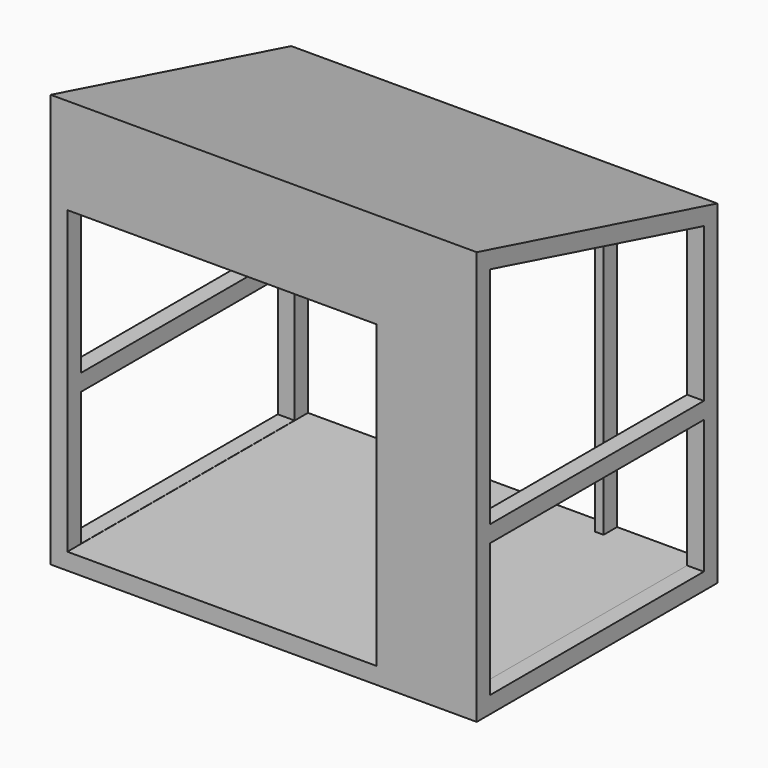
from build123d import *

# Parameters (mm, degrees)
F0_W      = 2590.8
F0_H      = 1828.8
F1_DEPTH  = 2514.6
F3_DEPTH  = 2590.801
F5_DEPTH  = 2590.801
F6_W      = 2387.6
F6_H      = 1828.8
F7_DEPTH  = 1828.801
F8_W      = 101.6
F8_H      = 101.6
F9_DEPTH  = 1625.6
F10_W     = 50.8
F10_H     = 1828.8
F11_DEPTH = 508
F12_W     = 50.8
F12_H     = 102.61595
F13_DEPTH = 1828.8


with BuildPart() as f1:
    # F0 (on Top) → F1 (new body)
    with BuildSketch(Plane.XY):
        Rectangle(F0_W, F0_H)
    extrude(amount=F1_DEPTH)

    # F2 (on face) → F3 (cut, through all)
    with BuildSketch(Plane.YZ.offset(1295.4)):
        Polygon((914.4, 2514.6), (-914.4, 2514.6), (914.4, 2032), align=None)
    extrude(amount=-F3_DEPTH, mode=Mode.SUBTRACT)

    # F4 (on face) → F5 (cut, through all)
    with BuildSketch(Plane.YZ.offset(1295.4)):
        Polygon((811.78405, 102.61595), (811.78405, 1952.950435), (-811.78405, 2381.392017), (-811.78405, 102.61595), align=None)
    extrude(amount=-F5_DEPTH, mode=Mode.SUBTRACT)

    # F6 (on face) → F7 (cut, through all)
    with BuildSketch(Plane(origin=(0, 914.4, 0), x_dir=(-1, 0, 0), z_dir=(0, 1, 0))):
        with Locations((0, 1016)):
            Rectangle(F6_W, F6_H)
    extrude(amount=-F7_DEPTH, mode=Mode.SUBTRACT)

    # F8 (on face) → F9 (join)
    with BuildSketch(Plane.XZ.offset(-811.78405)):
        with Locations((-1244.6, 966.21595)):
            Rectangle(F8_W, F8_H)
        with Locations((1244.6, 966.21595)):
            Rectangle(F8_W, F8_H)
    extrude(amount=F9_DEPTH)

    # F10 (on face) → F11 (join)
    with BuildSketch(Plane(origin=(1193.8, 0, 0), x_dir=(0, -1, 0), z_dir=(-1, 0, 0))):
        with Locations((889, 1016)):
            Rectangle(F10_W, F10_H)
    extrude(amount=F11_DEPTH)

    # F12 (on face) → F13 (join)
    with BuildSketch(Plane(origin=(0, 0, 1930.4), x_dir=(1, 0, 0), z_dir=(0, 0, -1))):
        with Locations((660.4, -863.092025)):
            Rectangle(F12_W, F12_H)
        with Locations((-152.4, -863.092025)):
            Rectangle(F12_W, F12_H)
    extrude(amount=F13_DEPTH)


solid = f1.part
